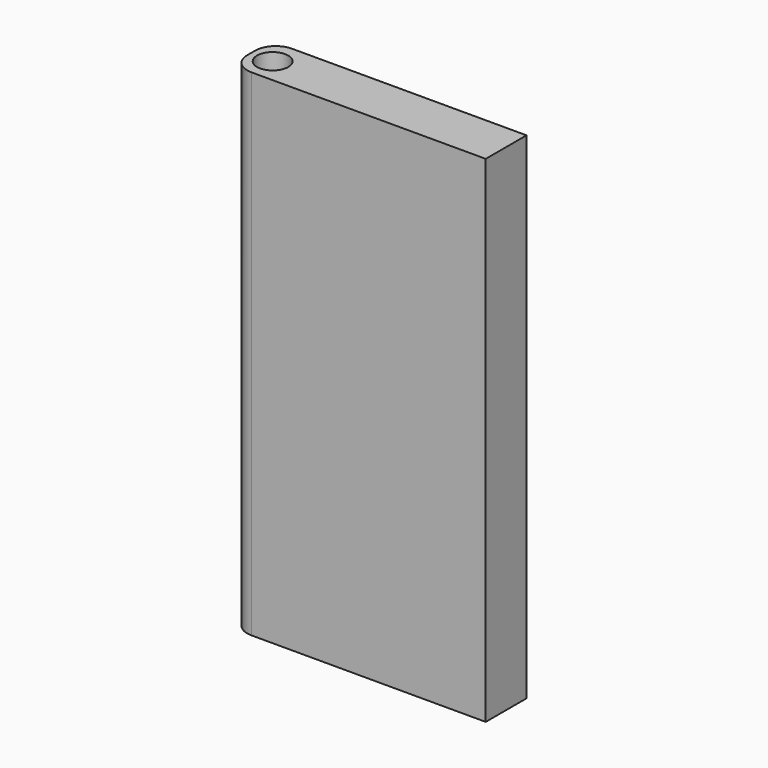
from build123d import *

# Parameters (mm, degrees)
F1_START      = 0.508
F0_W          = 22.86
F0_H          = 44.45
F1_DEPTH      = 4.572
F2_R          = 1.397
F3_DEPTH      = 25.4
F3_DEPTH_BACK = 25.4
F4_R          = 1.8396307345
F5_R          = 1.8396307345


with BuildPart() as f1:
    # F0 (on Front) → F1 (new body)
    with BuildSketch(Plane.XZ.offset(F1_START)):
        Rectangle(F0_W, F0_H)
    extrude(amount=F1_DEPTH)

    # F2 (on Top) → F3 (cut, two sides)
    with BuildSketch(Plane.XY) as f3_sk:
        with Locations((-9.4667607918, -2.8446267825)):
            Circle(F2_R)
    extrude(amount=F3_DEPTH, mode=Mode.SUBTRACT)
    extrude(f3_sk.sketch, amount=-F3_DEPTH_BACK, mode=Mode.SUBTRACT)

    # F4
    f4_edges = [f1.edges().sort_by_distance(p)[0] for p in [
        (-11.43, -0.508, 0),
    ]]
    fillet(f4_edges, radius=F4_R)

    # F5
    f5_edges = [f1.edges().sort_by_distance(p)[0] for p in [
        (-11.43, -5.08, 0),
    ]]
    fillet(f5_edges, radius=F5_R)


solid = f1.part
